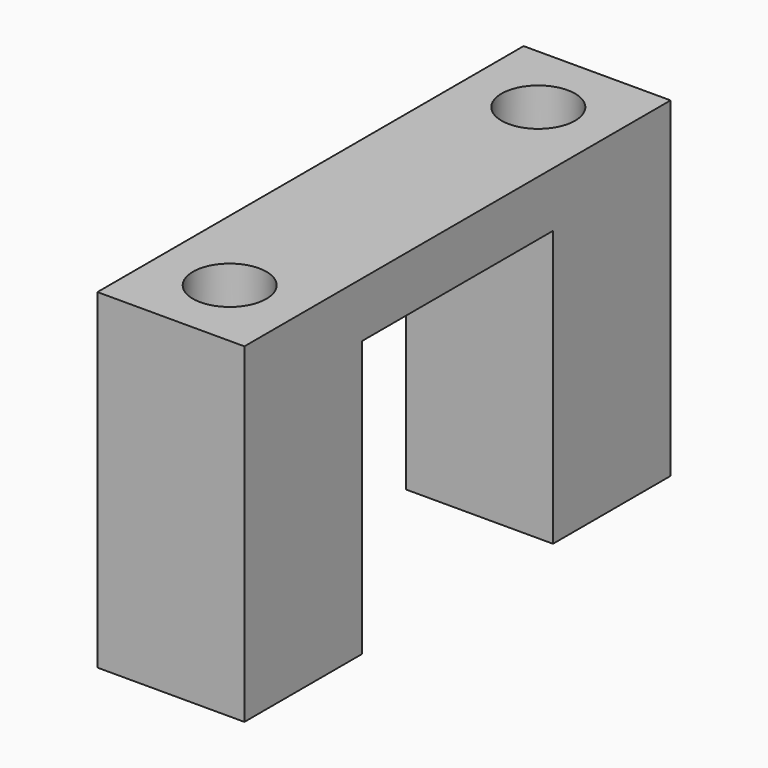
from build123d import *

# Parameters (mm, degrees)
F0_W     = 8
F0_H     = 8
F0_R     = 2
F0_H_2   = 13
F1_DEPTH = 3
F2_DEPTH = 15


with BuildPart() as f1:
    # F0 (on Top) → F1 (new body)
    with BuildSketch(Plane.XY):
        with Locations((0, 10.5)):
            Rectangle(F0_W, F0_H)
        with Locations((0, 10.5)):
            Circle(F0_R, mode=Mode.SUBTRACT)
        Rectangle(F0_W, F0_H_2)
        with Locations((0, -10.5)):
            Rectangle(F0_W, F0_H)
        with Locations((0, -10.5)):
            Circle(F0_R, mode=Mode.SUBTRACT)
    extrude(amount=F1_DEPTH)

    # F0 (on Top) → F2 (join)
    with BuildSketch(Plane.XY):
        with Locations((0, 10.5)):
            Rectangle(F0_W, F0_H)
        with Locations((0, 10.5)):
            Circle(F0_R, mode=Mode.SUBTRACT)
        with Locations((0, -10.5)):
            Rectangle(F0_W, F0_H)
        with Locations((0, -10.5)):
            Circle(F0_R, mode=Mode.SUBTRACT)
    extrude(amount=-F2_DEPTH)


solid = f1.part
